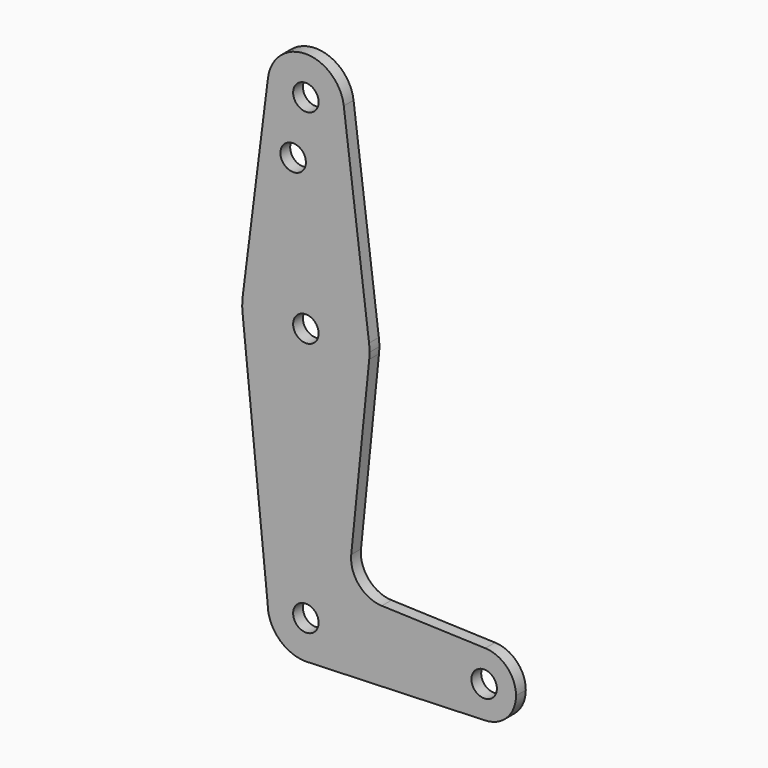
from build123d import *

# Parameters (mm, degrees)
F0_R     = 3.175
F1_DEPTH = 3.048


with BuildPart() as f1:
    # F0 (on Front) → F1 (new body)
    with BuildSketch(Plane.XZ):
        with BuildLine():
            ThreePointArc((-9.450293, 51.990625), (-0.596483, 41.293695), (9.525, 50.8))
            ThreePointArc((9.525, 50.8), (9.506305, 51.396483), (9.450293, 51.990625))
            ThreePointArc((9.450293, 51.990625), (0, 60.325), (-9.450293, 51.990625))
        make_face()
        with Locations((0, 50.8)):
            Circle(F0_R, mode=Mode.SUBTRACT)
        with BuildLine():
            ThreePointArc((9.450293, 51.990625), (9.506305, 51.396483), (9.525, 50.8))
            ThreePointArc((9.525, 50.8), (-0.596483, 41.293695), (-9.450293, 51.990625))
            Line((-9.450293, 51.990625), (-15.750488, 1.984375))
            ThreePointArc((-15.750488, 1.984375), (0, 15.875), (15.750488, 1.984375))
            Line((15.750488, 1.984375), (9.450293, 51.990625))
        make_face()
        with Locations((-3.175, 36.5252)):
            Circle(F0_R, mode=Mode.SUBTRACT)
        with BuildLine():
            ThreePointArc((15.875, 0), (15.843841, 0.994139), (15.750488, 1.984375))
            ThreePointArc((15.750488, 1.984375), (0, 15.875), (-15.750488, 1.984375))
            ThreePointArc((-15.750488, 1.984375), (-15.873819, 0.193615), (-15.794203, -1.59962))
            ThreePointArc((-15.794203, -1.59962), (0, -15.875), (15.794203, -1.59962))
            ThreePointArc((15.794203, -1.59962), (15.854788, -0.800829), (15.875, 0))
        make_face()
        Circle(F0_R, mode=Mode.SUBTRACT)
        with BuildLine():
            ThreePointArc((15.794203, -1.59962), (0, -15.875), (-15.794203, -1.59962))
            Line((-15.794203, -1.59962), (-9.525, -63.5))
            ThreePointArc((-9.525, -63.5), (0, -53.975), (9.525, -63.5))
            ThreePointArc((9.525, -63.5), (6.970557, -69.991299), (0.677344, -73.000886))
            Line((0.677344, -73.000886), (44.732405, -71.432475))
            ThreePointArc((44.732405, -71.432475), (36.5125, -63.5), (44.732405, -55.567525))
            Line((44.732405, -55.567525), (18.934103, -54.649076))
            ThreePointArc((18.934103, -54.649076), (13.224974, -51.92902), (11.307223, -45.90282))
            Line((11.307223, -45.90282), (15.794203, -1.59962))
        make_face()
        with BuildLine():
            ThreePointArc((9.525, -63.5), (0, -53.975), (-9.525, -63.5))
            ThreePointArc((-9.525, -63.5), (-6.735192, -70.235192), (0, -73.025))
            Line((0, -73.025), (0.677344, -73.000886))
            ThreePointArc((0.677344, -73.000886), (6.970557, -69.991299), (9.525, -63.5))
        make_face()
        with Locations((0, -63.5)):
            Circle(F0_R, mode=Mode.SUBTRACT)
        with BuildLine():
            Line((0.677344, -73.000886), (0, -73.025))
            ThreePointArc((0, -73.025), (0.338886, -73.01897), (0.677344, -73.000886))
        make_face()
        with BuildLine():
            ThreePointArc((52.3875, -63.5), (50.161633, -57.98809), (44.732405, -55.567525))
            ThreePointArc((44.732405, -55.567525), (36.5125, -63.5), (44.732405, -71.432475))
            ThreePointArc((44.732405, -71.432475), (50.161633, -69.01191), (52.3875, -63.5))
        make_face()
        with Locations((44.45, -63.5)):
            Circle(F0_R, mode=Mode.SUBTRACT)
    extrude(amount=F1_DEPTH)


solid = f1.part
